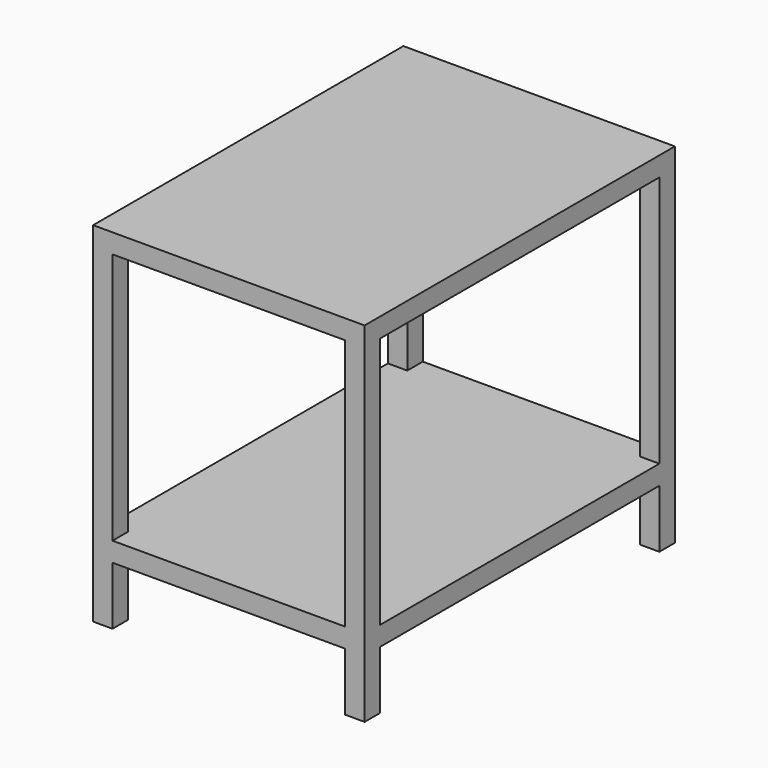
from build123d import *

# Parameters (mm, degrees)
F0_W     = 700
F0_H     = 1000
F1_DEPTH = 900
F2_W     = 900
F2_H     = 97.384112
F2_H_2   = 150
F2_H_3   = 650
F3_DEPTH = 1000
F4_W     = 600
F4_H     = 174.410781
F4_H_2   = 150
F4_H_3   = 650
F5_DEPTH = 1000


with BuildPart() as f1:
    # F0 (on Top) → F1 (new body)
    with BuildSketch(Plane.XY):
        Rectangle(F0_W, F0_H)
    extrude(amount=F1_DEPTH)

    # F2 (on face) → F3 (cut)
    with BuildSketch(Plane.YZ.offset(350)):
        with Locations((0, -48.692056)):
            Rectangle(F2_W, F2_H)
        with Locations((0, 75)):
            Rectangle(F2_W, F2_H_2)
        with Locations((0, 525)):
            Rectangle(F2_W, F2_H_3)
    extrude(amount=-F3_DEPTH, mode=Mode.SUBTRACT)

    # F4 (on face) → F5 (cut)
    with BuildSketch(Plane(origin=(0, 500, 0), x_dir=(-1, 0, 0), z_dir=(0, 1, 0))):
        with Locations((0, -87.20539)):
            Rectangle(F4_W, F4_H)
        with Locations((0, 75)):
            Rectangle(F4_W, F4_H_2)
        with Locations((0, 525)):
            Rectangle(F4_W, F4_H_3)
    extrude(amount=-F5_DEPTH, mode=Mode.SUBTRACT)


solid = f1.part
